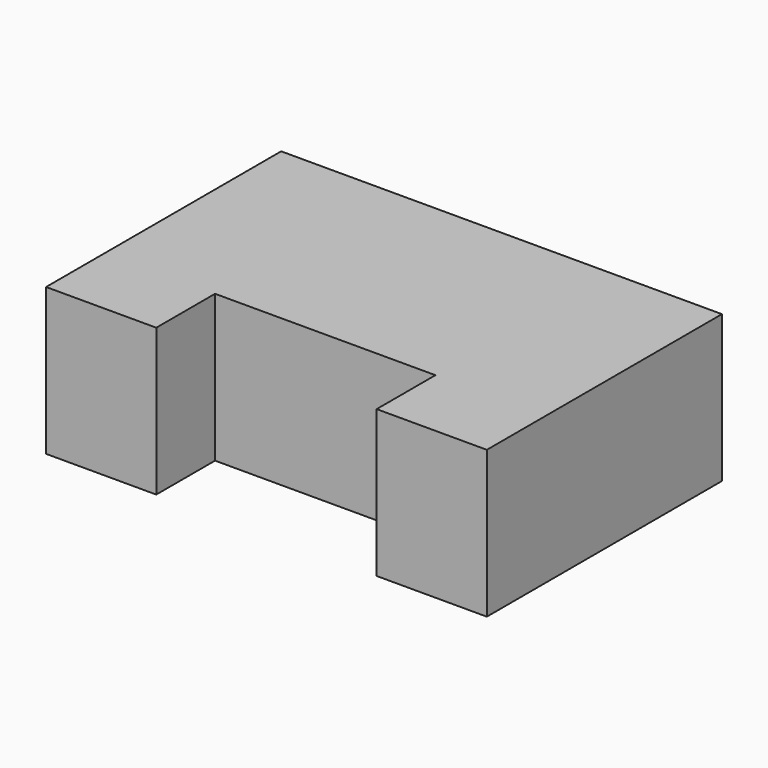
from build123d import *

# Parameters (mm, degrees)
F0_W     = 25.4
F0_H     = 12.7
F1_DEPTH = 25.4


with BuildPart() as f1:
    # F0 (on Top) → F1 (new body)
    with BuildSketch(Plane.XY):
        Polygon((38.1, 38.1), (0, 0), (19.05, 0), (19.05, 12.7), (57.15, 12.7), (57.15, 0), (76.2, 0), align=None)
        Polygon((0, 38.1), (0, 0), (38.1, 38.1), (25.4, 38.1), align=None)
        with Locations((12.7, 44.45)):
            Rectangle(F0_W, F0_H)
        Polygon((25.4, 38.1), (38.1, 38.1), (50.8, 38.1), (50.8, 50.8), (25.4, 50.8), align=None)
        Polygon((50.8, 38.1), (38.1, 38.1), (76.2, 0), (76.2, 38.1), align=None)
        with Locations((63.5, 44.45)):
            Rectangle(F0_W, F0_H)
    extrude(amount=F1_DEPTH)


solid = f1.part
